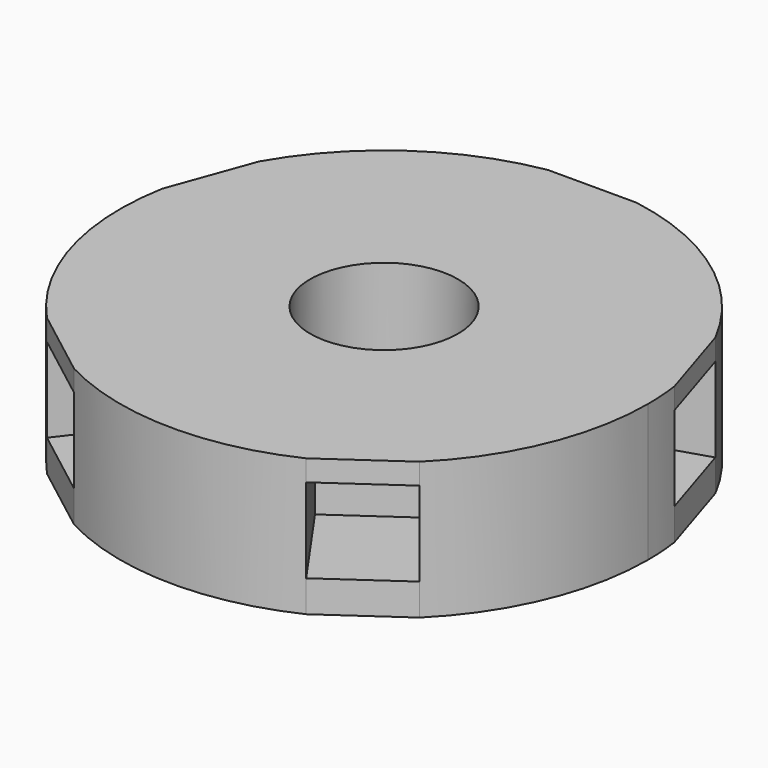
from build123d import *

# Parameters (mm, degrees)
F0_R     = 3.5
F1_DEPTH = 6.5
F2_START = 1.5
F2_DEPTH = 4


with BuildPart() as f1:
    # F0 (on Top) → F1 (new body)
    with BuildSketch(Plane.XY):
        with BuildLine():
            Line((-9.1673866339, -8.4975892055), (-6.0491072211, -4.4337683552))
            ThreePointArc((-6.0491072211, -4.4337683552), (-7.2003739079, -2.0987176052), (-7.4840272858, 0.4892193627))
            Line((-7.4840272858, 0.4892193627), (-12.2974468195, 2.241160798))
            ThreePointArc((-12.2974468195, 2.241160798), (-12.0006231798, -3.4978626754), (-9.1673866339, -8.4975892055))
        make_face()
        with BuildLine():
            ThreePointArc((-6.0475616592, 4.4358762356), (-4.3018232726, 6.1436403322), (-2.0999722599, 7.2000080908))
            Line((-2.0999722599, 7.2000080908), (-2.0999722599, 12.3223421681))
            ThreePointArc((-2.0999722599, 12.3223421681), (-7.1697054544, 10.2394005536), (-10.8609811929, 6.1878176709))
            Line((-10.8609811929, 6.1878176709), (-6.0475616592, 4.4358762356))
        make_face()
        with BuildLine():
            ThreePointArc((2.0999722599, 7.2000080908), (4.4348223627, 6.048334532), (6.2352959244, 4.1678633297))
            Line((6.2352959244, 4.1678633297), (11.1205527613, 5.7081788938))
            ThreePointArc((11.1205527613, 5.7081788938), (7.3913706045, 10.0805575533), (2.0999722599, 12.3223421681))
            Line((2.0999722599, 12.3223421681), (2.0999722599, 7.2000080908))
        make_face()
        with BuildLine():
            ThreePointArc((7.4982435991, 0.1623050491), (7.4995608869, 0.0811572762), (7.5, 0))
            ThreePointArc((7.5, 0), (7.0754730103, -2.4875051115), (5.849951552, -4.6934067412))
            Line((5.849951552, -4.6934067412), (8.7880016779, -8.8893771722))
            ThreePointArc((8.7880016779, -8.8893771722), (11.5347306205, -4.8166367429), (12.5, 0))
            ThreePointArc((12.5, 0), (12.4708410993, 0.8533008116), (12.383500436, 1.7026206131))
            Line((12.383500436, 1.7026206131), (7.4982435991, 0.1623050491))
        make_face()
        with BuildLine():
            Line((5.3476085387, -11.2983663827), (2.4095584128, -7.1023959517))
            ThreePointArc((2.4095584128, -7.1023959517), (-0.1636116378, -7.4982152031), (-2.7170672074, -6.9905325828))
            Line((-2.7170672074, -6.9905325828), (-5.8353466201, -11.0543534331))
            ThreePointArc((-5.8353466201, -11.0543534331), (-0.2726860629, -12.4970253385), (5.3476085387, -11.2983663827))
        make_face()
        with BuildLine():
            ThreePointArc((-7.4840272858, 0.4892193627), (-7.0476946559, 2.5651510749), (-6.0475616592, 4.4358762356))
            Line((-6.0475616592, 4.4358762356), (-10.8609811929, 6.1878176709))
            Line((-10.8609811929, 6.1878176709), (-12.2974468195, 2.241160798))
            Line((-12.2974468195, 2.241160798), (-7.4840272858, 0.4892193627))
        make_face()
        with BuildLine():
            Line((8.7880016779, -8.8893771722), (5.849951552, -4.6934067412))
            ThreePointArc((5.849951552, -4.6934067412), (4.3018232726, -6.1436403322), (2.4095584128, -7.1023959517))
            Line((2.4095584128, -7.1023959517), (5.3476085387, -11.2983663827))
            Line((5.3476085387, -11.2983663827), (8.7880016779, -8.8893771722))
        make_face()
        with BuildLine():
            Line((-5.8353466201, -11.0543534331), (-2.7170672074, -6.9905325828))
            ThreePointArc((-2.7170672074, -6.9905325828), (-4.5657107176, -5.9501500522), (-6.0491072211, -4.4337683552))
            Line((-6.0491072211, -4.4337683552), (-9.1673866339, -8.4975892055))
            Line((-9.1673866339, -8.4975892055), (-5.8353466201, -11.0543534331))
        make_face()
        with BuildLine():
            Line((-7.4840272858, 0.4892193627), (-6.0475616592, 4.4358762356))
            ThreePointArc((-6.0475616592, 4.4358762356), (-7.0476946559, 2.5651510749), (-7.4840272858, 0.4892193627))
        make_face()
        with BuildLine():
            ThreePointArc((-2.0999722599, 7.2000080908), (0, 7.5), (2.0999722599, 7.2000080908))
            Line((2.0999722599, 7.2000080908), (2.0999722599, 12.3223421681))
            Line((2.0999722599, 12.3223421681), (-2.0999722599, 12.3223421681))
            Line((-2.0999722599, 12.3223421681), (-2.0999722599, 7.2000080908))
        make_face()
        with BuildLine():
            Line((-2.0999722599, 7.2000080908), (2.0999722599, 7.2000080908))
            ThreePointArc((2.0999722599, 7.2000080908), (0, 7.5), (-2.0999722599, 7.2000080908))
        make_face()
        with BuildLine():
            ThreePointArc((-6.0491072211, -4.4337683552), (-4.5657107176, -5.9501500522), (-2.7170672074, -6.9905325828))
            Line((-2.7170672074, -6.9905325828), (-6.0491072211, -4.4337683552))
        make_face()
        with BuildLine():
            ThreePointArc((5.849951552, -4.6934067412), (7.0754730103, -2.4875051115), (7.5, 0))
            ThreePointArc((7.5, 0), (7.4995608869, 0.0811572762), (7.4982435991, 0.1623050491))
            Line((7.4982435991, 0.1623050491), (6.2352959244, 4.1678633297))
            ThreePointArc((6.2352959244, 4.1678633297), (4.4348223627, 6.048334532), (2.0999722599, 7.2000080908))
            Line((2.0999722599, 7.2000080908), (-2.0999722599, 7.2000080908))
            ThreePointArc((-2.0999722599, 7.2000080908), (-4.3018232726, 6.1436403322), (-6.0475616592, 4.4358762356))
            Line((-6.0475616592, 4.4358762356), (-7.4840272858, 0.4892193627))
            ThreePointArc((-7.4840272858, 0.4892193627), (-7.2003739079, -2.0987176052), (-6.0491072211, -4.4337683552))
            Line((-6.0491072211, -4.4337683552), (-2.7170672074, -6.9905325828))
            ThreePointArc((-2.7170672074, -6.9905325828), (-0.1636116378, -7.4982152031), (2.4095584128, -7.1023959517))
            Line((2.4095584128, -7.1023959517), (5.849951552, -4.6934067412))
        make_face()
        Circle(F0_R, mode=Mode.SUBTRACT)
        with BuildLine():
            ThreePointArc((2.4095584128, -7.1023959517), (4.3018232726, -6.1436403322), (5.849951552, -4.6934067412))
            Line((5.849951552, -4.6934067412), (2.4095584128, -7.1023959517))
        make_face()
        with BuildLine():
            Line((6.2352959244, 4.1678633297), (7.4982435991, 0.1623050491))
            ThreePointArc((7.4982435991, 0.1623050491), (7.1528771306, 2.2552934963), (6.2352959244, 4.1678633297))
        make_face()
        with BuildLine():
            ThreePointArc((6.2352959244, 4.1678633297), (7.1528771306, 2.2552934963), (7.4982435991, 0.1623050491))
            Line((7.4982435991, 0.1623050491), (12.383500436, 1.7026206131))
            Line((12.383500436, 1.7026206131), (11.1205527613, 5.7081788938))
            Line((11.1205527613, 5.7081788938), (6.2352959244, 4.1678633297))
        make_face()
    extrude(amount=F1_DEPTH)

    # F0 (on Top) → F2 (cut)
    with BuildSketch(Plane.XY.offset(F2_START)):
        with BuildLine():
            Line((-5.8353466201, -11.0543534331), (-2.7170672074, -6.9905325828))
            ThreePointArc((-2.7170672074, -6.9905325828), (-4.5657107176, -5.9501500522), (-6.0491072211, -4.4337683552))
            Line((-6.0491072211, -4.4337683552), (-9.1673866339, -8.4975892055))
            Line((-9.1673866339, -8.4975892055), (-5.8353466201, -11.0543534331))
        make_face()
        with BuildLine():
            ThreePointArc((-6.0491072211, -4.4337683552), (-4.5657107176, -5.9501500522), (-2.7170672074, -6.9905325828))
            Line((-2.7170672074, -6.9905325828), (-6.0491072211, -4.4337683552))
        make_face()
        with BuildLine():
            ThreePointArc((-7.4840272858, 0.4892193627), (-7.0476946559, 2.5651510749), (-6.0475616592, 4.4358762356))
            Line((-6.0475616592, 4.4358762356), (-10.8609811929, 6.1878176709))
            Line((-10.8609811929, 6.1878176709), (-12.2974468195, 2.241160798))
            Line((-12.2974468195, 2.241160798), (-7.4840272858, 0.4892193627))
        make_face()
        with BuildLine():
            Line((-7.4840272858, 0.4892193627), (-6.0475616592, 4.4358762356))
            ThreePointArc((-6.0475616592, 4.4358762356), (-7.0476946559, 2.5651510749), (-7.4840272858, 0.4892193627))
        make_face()
        with BuildLine():
            ThreePointArc((-2.0999722599, 7.2000080908), (0, 7.5), (2.0999722599, 7.2000080908))
            Line((2.0999722599, 7.2000080908), (2.0999722599, 12.3223421681))
            Line((2.0999722599, 12.3223421681), (-2.0999722599, 12.3223421681))
            Line((-2.0999722599, 12.3223421681), (-2.0999722599, 7.2000080908))
        make_face()
        with BuildLine():
            Line((-2.0999722599, 7.2000080908), (2.0999722599, 7.2000080908))
            ThreePointArc((2.0999722599, 7.2000080908), (0, 7.5), (-2.0999722599, 7.2000080908))
        make_face()
        with BuildLine():
            ThreePointArc((6.2352959244, 4.1678633297), (7.1528771306, 2.2552934963), (7.4982435991, 0.1623050491))
            Line((7.4982435991, 0.1623050491), (12.383500436, 1.7026206131))
            Line((12.383500436, 1.7026206131), (11.1205527613, 5.7081788938))
            Line((11.1205527613, 5.7081788938), (6.2352959244, 4.1678633297))
        make_face()
        with BuildLine():
            Line((6.2352959244, 4.1678633297), (7.4982435991, 0.1623050491))
            ThreePointArc((7.4982435991, 0.1623050491), (7.1528771306, 2.2552934963), (6.2352959244, 4.1678633297))
        make_face()
        with BuildLine():
            Line((8.7880016779, -8.8893771722), (5.849951552, -4.6934067412))
            ThreePointArc((5.849951552, -4.6934067412), (4.3018232726, -6.1436403322), (2.4095584128, -7.1023959517))
            Line((2.4095584128, -7.1023959517), (5.3476085387, -11.2983663827))
            Line((5.3476085387, -11.2983663827), (8.7880016779, -8.8893771722))
        make_face()
        with BuildLine():
            ThreePointArc((2.4095584128, -7.1023959517), (4.3018232726, -6.1436403322), (5.849951552, -4.6934067412))
            Line((5.849951552, -4.6934067412), (2.4095584128, -7.1023959517))
        make_face()
    extrude(amount=F2_DEPTH, mode=Mode.SUBTRACT)


solid = f1.part
